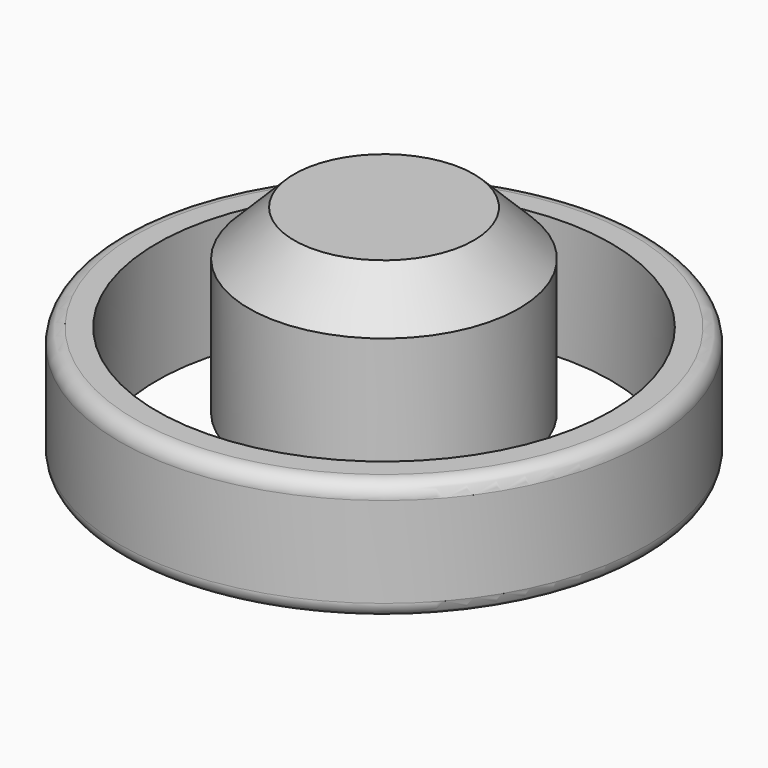
from build123d import *

# Parameters (mm, degrees)
SKETCH_R     = 17.5
SKETCH_R_2   = 15.05
PAD_DEPTH    = 8
FILLET_R     = 1
SKETCH001_R  = 8.95
PAD001_DEPTH = 15
CHAMFER_SIZE = 3


with BuildPart() as ring:
    # Sketch → Pad (new body)
    with BuildSketch(Plane.XY):
        Circle(SKETCH_R)
        Circle(SKETCH_R_2, mode=Mode.SUBTRACT)
    extrude(amount=PAD_DEPTH)

    # Fillet
    fillet_edges = [ring.edges().sort_by_distance(p)[0] for p in [
        (17.5, 0, 4),
        (-17.5, 0, 0),
        (-17.5, 0, 8),
    ]]
    fillet(fillet_edges, radius=FILLET_R)


with BuildPart() as hub:
    # Sketch001 → Pad001 (new body)
    with BuildSketch(Plane.XY):
        Circle(SKETCH001_R)
    extrude(amount=PAD001_DEPTH)

    # Chamfer
    chamfer_edges = [hub.edges().sort_by_distance(p)[0] for p in [
        (8.95, 0, 7.5),
        (-8.95, 0, 0),
        (-8.95, 0, 15),
    ]]
    chamfer(chamfer_edges, length=CHAMFER_SIZE)


solid = Compound([ring.part, hub.part])
